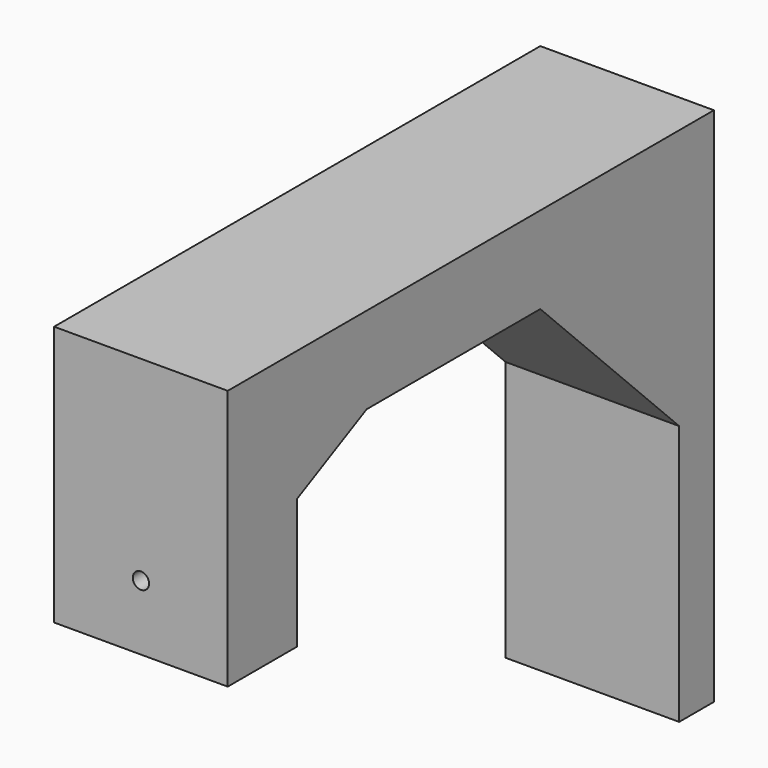
from build123d import *

# Parameters (mm, degrees)
F0_W            = 25.4
F0_H            = 38.1
F1_DEPTH        = 12.7
F3_DEPTH        = 76.2
F4_W            = 25.4
F4_H            = 6.346226
F5_DEPTH        = 63.5
F7_DEPTH        = 25.4
F8_W            = 25.4
F8_H            = 6.35
F9_DEPTH        = 12.7
F11_DEPTH       = 25.4
F13_D           = 2.38125
F13_DEPTH       = 12.7
F13_CBORE_D     = 6.35
F13_CBORE_DEPTH = 3.175


with BuildPart() as f1:
    # F0 (on Front) → F1 (new body)
    with BuildSketch(Plane.XZ):
        with Locations((-20.66209, -15.939255)):
            Rectangle(F0_W, F0_H)
    extrude(amount=-F1_DEPTH)

    # F2 (on face) → F3 (join)
    with BuildSketch(Plane(origin=(0, 12.7, 0), x_dir=(-1, 0, 0), z_dir=(0, 1, 0))):
        Polygon((7.96209, -9.589255), (20.66209, -9.589255), (33.36209, -9.589255), (33.36209, 3.110745), (7.96209, 3.110745), align=None)
    extrude(amount=F3_DEPTH)

    # F4 (on face) → F5 (join)
    with BuildSketch(Plane(origin=(0, 0, -9.589255), x_dir=(1, 0, 0), z_dir=(0, 0, -1))):
        with Locations((-20.66209, -85.726887)):
            Rectangle(F4_W, F4_H)
    extrude(amount=F5_DEPTH)

    # F6 (on face) → F7 (join)
    with BuildSketch(Plane.YZ.offset(-7.96209)):
        Polygon((57.153774, -9.589255), (82.553774, -34.989255), (82.553774, -9.589255), align=None)
    extrude(amount=-F7_DEPTH)

    # F8 (on face) → F9 (join)
    with BuildSketch(Plane(origin=(0, 12.7, 0), x_dir=(-1, 0, 0), z_dir=(0, 1, 0))):
        with Locations((20.66209, -12.764255)):
            Rectangle(F8_W, F8_H)
    extrude(amount=F9_DEPTH)

    # F10 (on face) → F11 (cut, through all)
    with BuildSketch(Plane.YZ.offset(-7.96209)):
        Polygon((25.4, -15.939255), (25.4, -9.589255), (12.7, -15.939255), align=None)
    extrude(amount=-F11_DEPTH, mode=Mode.SUBTRACT)

    # F13
    with Locations(Plane(origin=(0, 12.7, 0), x_dir=(-1, 0, 0), z_dir=(0, 1, 0))):
        with Locations((20.66209, -25.464255)):
            CounterBoreHole(F13_D / 2, F13_CBORE_D / 2, F13_CBORE_DEPTH, depth=F13_DEPTH)


solid = f1.part
